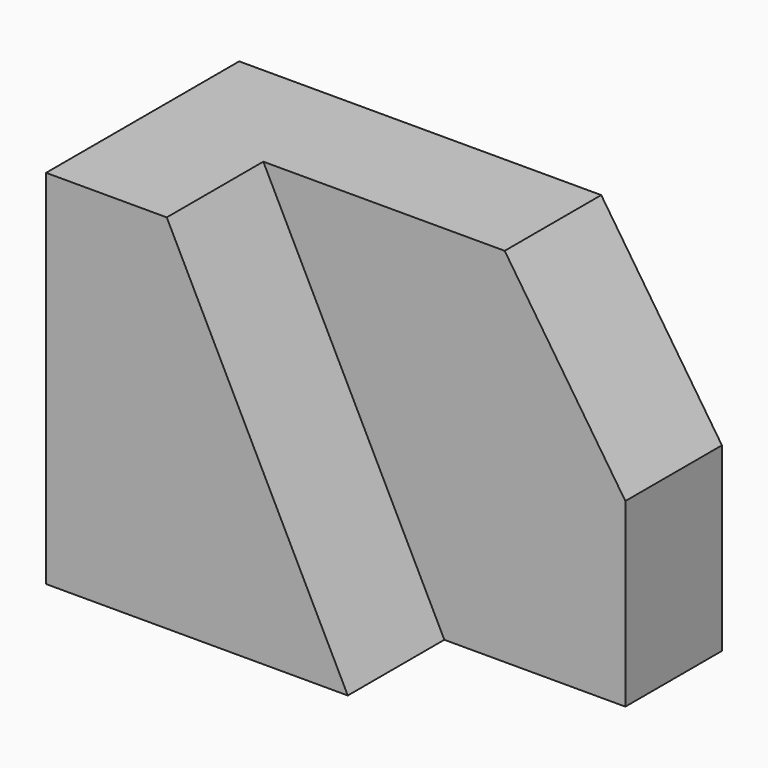
from build123d import *

# Parameters (mm, degrees)
F0_W     = 101.6
F0_H     = 76.2
F1_DEPTH = 50.8
F3_DEPTH = 25.4
F5_DEPTH = 25.4


with BuildPart() as f1:
    # F0 (on Front) → F1 (new body)
    with BuildSketch(Plane.XZ):
        Rectangle(F0_W, F0_H)
    extrude(amount=F1_DEPTH)

    # F2 (on face) → F3 (cut)
    with BuildSketch(Plane.XZ.offset(50.8)):
        Polygon((50.8, 38.1), (-25.4, 38.1), (12.7, -38.1), (50.8, -38.1), align=None)
    extrude(amount=-F3_DEPTH, mode=Mode.SUBTRACT)

    # F4 (on face) → F5 (cut)
    with BuildSketch(Plane.XZ.offset(25.4)):
        Polygon((50.8, 38.1), (25.4, 38.1), (50.8, 0), align=None)
    extrude(amount=-F5_DEPTH, mode=Mode.SUBTRACT)


solid = f1.part
